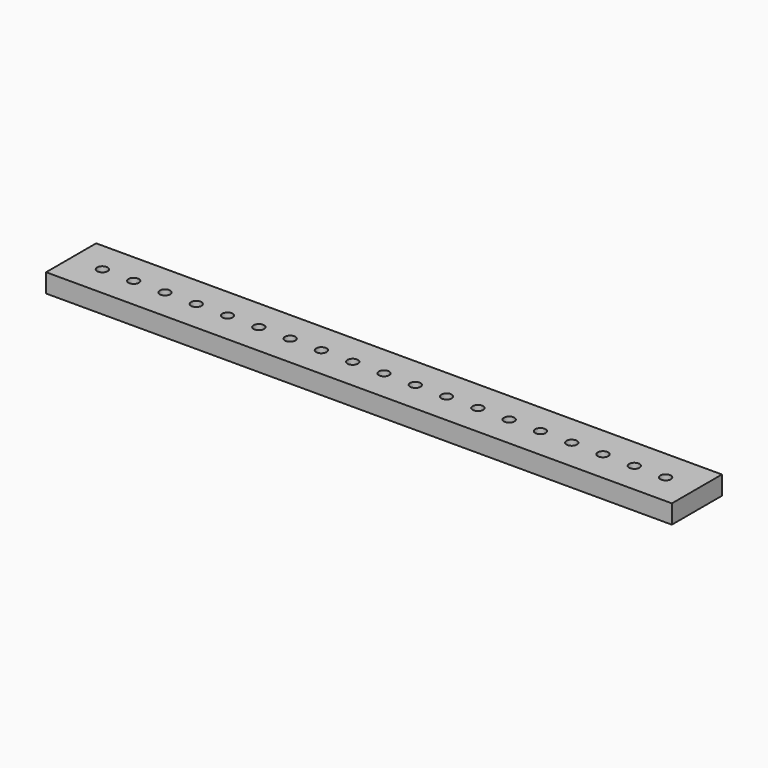
from build123d import *

# Parameters (mm, degrees)
F0_W     = 300
F0_H     = 30
F0_R     = 2.5
F1_DEPTH = 9


with BuildPart() as f1:
    # F0 (on Top) → F1 (new body)
    with BuildSketch(Plane.XY):
        Rectangle(F0_W, F0_H)
        with Locations((-135, 0)):
            Circle(F0_R, mode=Mode.SUBTRACT)
        with Locations((-120, 0)):
            Circle(F0_R, mode=Mode.SUBTRACT)
        with Locations((-105, 0)):
            Circle(F0_R, mode=Mode.SUBTRACT)
        with Locations((-90, 0)):
            Circle(F0_R, mode=Mode.SUBTRACT)
        with Locations((-75, 0)):
            Circle(F0_R, mode=Mode.SUBTRACT)
        with Locations((-60, 0)):
            Circle(F0_R, mode=Mode.SUBTRACT)
        with Locations((-45, 0)):
            Circle(F0_R, mode=Mode.SUBTRACT)
        with Locations((-30, 0)):
            Circle(F0_R, mode=Mode.SUBTRACT)
        with Locations((-15, 0)):
            Circle(F0_R, mode=Mode.SUBTRACT)
        Circle(F0_R, mode=Mode.SUBTRACT)
        with Locations((15, 0)):
            Circle(F0_R, mode=Mode.SUBTRACT)
        with Locations((30, 0)):
            Circle(F0_R, mode=Mode.SUBTRACT)
        with Locations((45, 0)):
            Circle(F0_R, mode=Mode.SUBTRACT)
        with Locations((60, 0)):
            Circle(F0_R, mode=Mode.SUBTRACT)
        with Locations((75, 0)):
            Circle(F0_R, mode=Mode.SUBTRACT)
        with Locations((90, 0)):
            Circle(F0_R, mode=Mode.SUBTRACT)
        with Locations((105, 0)):
            Circle(F0_R, mode=Mode.SUBTRACT)
        with Locations((120, 0)):
            Circle(F0_R, mode=Mode.SUBTRACT)
        with Locations((135, 0)):
            Circle(F0_R, mode=Mode.SUBTRACT)
    extrude(amount=F1_DEPTH)


solid = f1.part
